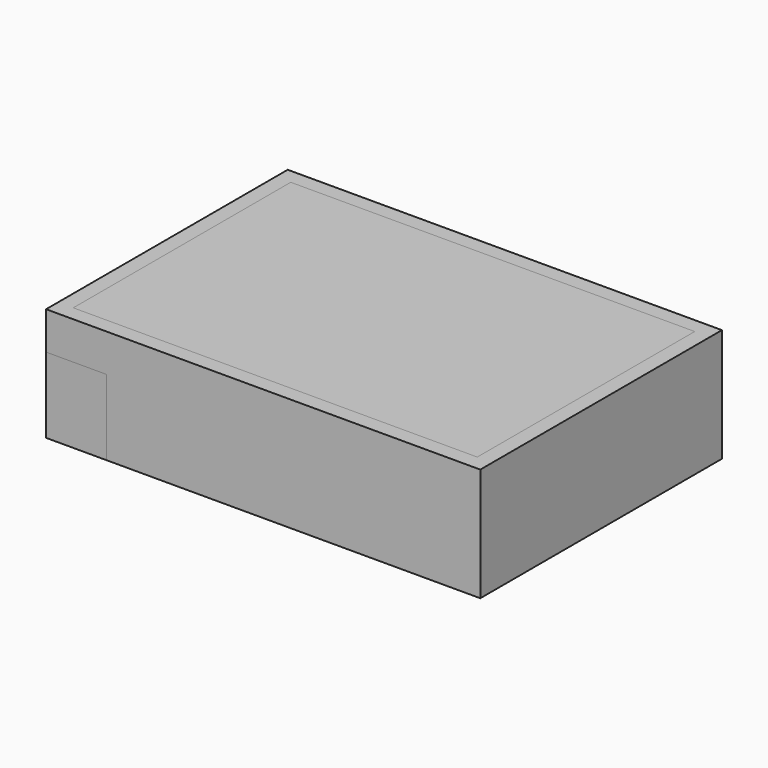
from build123d import *

# Parameters (mm, degrees)
BOX_W        = 115
BOX_H        = 80
BOX_DEPTH    = 30
BOX001_W     = 107
BOX001_H     = 72
BOX001_DEPTH = 25
BOX002_W     = 4
BOX002_H     = 16
BOX002_DEPTH = 20
BOX003_W     = 4
BOX003_H     = 16
BOX003_DEPTH = 20
BOX004_W     = 16
BOX004_H     = 4
BOX004_DEPTH = 20


with BuildPart() as basis:
    # Box → Box (new body)
    with BuildSketch(Plane.XY):
        with Locations((57.5, 40)):
            Rectangle(BOX_W, BOX_H)
    extrude(amount=BOX_DEPTH)


with BuildPart() as basis_cut:
    # Box001 → Box001 (new body)
    with BuildSketch(Plane(origin=(4, 4, 5), x_dir=(1, 0, 0), z_dir=(0, 0, 1))):
        with Locations((53.5, 36)):
            Rectangle(BOX001_W, BOX001_H)
    extrude(amount=BOX001_DEPTH)


with BuildPart() as solar:
    # Box002 → Box002 (new body)
    with BuildSketch(Plane(origin=(0, 4, 0), x_dir=(1, 0, 0), z_dir=(0, 0, 1))):
        with Locations((2, 8)):
            Rectangle(BOX002_W, BOX002_H)
    extrude(amount=BOX002_DEPTH)


with BuildPart() as obj1:
    # Box003 → Box003 (new body)
    with BuildSketch(Plane(origin=(0, 60, 0), x_dir=(1, 0, 0), z_dir=(0, 0, 1))):
        with Locations((2, 8)):
            Rectangle(BOX003_W, BOX003_H)
    extrude(amount=BOX003_DEPTH)


with BuildPart() as obj2:
    # Box004 → Box004 (new body)
    with BuildSketch(Plane.XY):
        with Locations((8, 2)):
            Rectangle(BOX004_W, BOX004_H)
    extrude(amount=BOX004_DEPTH)


solid = Compound([basis.part, basis_cut.part, solar.part, obj1.part, obj2.part])
